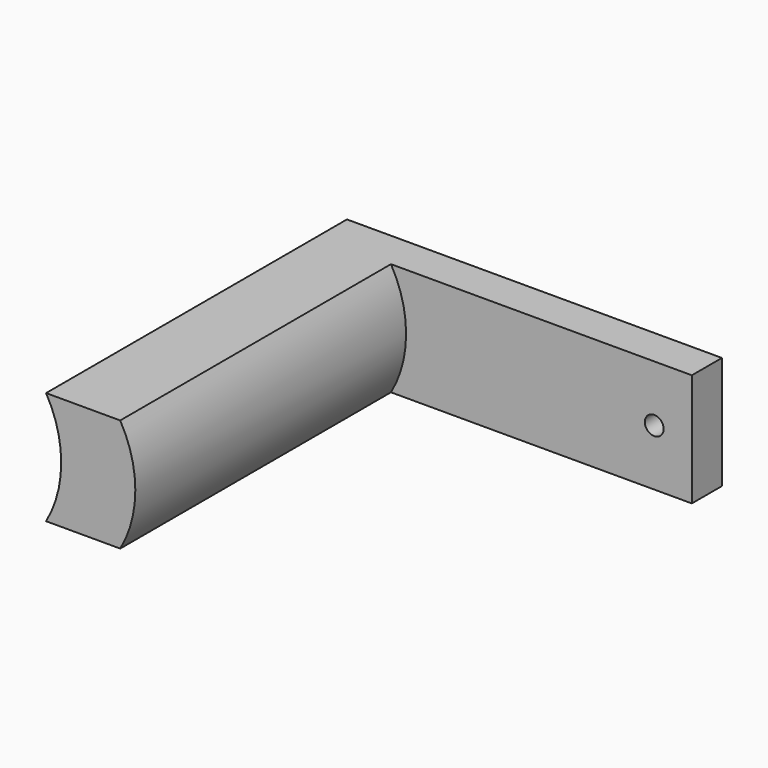
from build123d import *

# Parameters (mm, degrees)
PAD004_DEPTH    = 30
SKETCH018_R     = 2.5
POCKET007_DEPTH = 100.001
SKETCH019_R     = 30
POCKET008_DEPTH = 100.001
PAD005_DEPTH    = 90


with BuildPart() as part:
    # Sketch016 → Pad004 (new body)
    with BuildSketch(Plane.XY):
        Polygon((10, -50), (-10, -50), (-10, 50), (90, 50), (90, 40), (10, 40), align=None)
    extrude(amount=PAD004_DEPTH)

    # Sketch018 → Pocket007 (cut, through all)
    with BuildSketch(Plane(origin=(0, 50, 0), x_dir=(-1, 0, 0), z_dir=(0, 1, 0))):
        with Locations((-80, 15)):
            Circle(SKETCH018_R)
    extrude(amount=-POCKET007_DEPTH, mode=Mode.SUBTRACT)

    # Sketch019 (on Face1 of Pocket007) → Pocket008 (cut, through all)
    with BuildSketch(Plane.XZ.offset(50)):
        with Locations((-35.69, 15)):
            Circle(SKETCH019_R)
    extrude(amount=-POCKET008_DEPTH, mode=Mode.SUBTRACT)

    # Sketch020 (on Face7 of Pocket008) → Pad005 (join)
    with BuildSketch(Plane.XZ.offset(-40)):
        with BuildLine():
            Line((10, 0), (10, 30))
            ThreePointArc((10, 0), (14.019238, 15), (10, 30))
        make_face()
    extrude(amount=PAD005_DEPTH)


with BuildPart() as part_1:
    # Body005 placement: moved
    add(part.part.moved(Location((-69, 36, -15))))


solid = part_1.part
